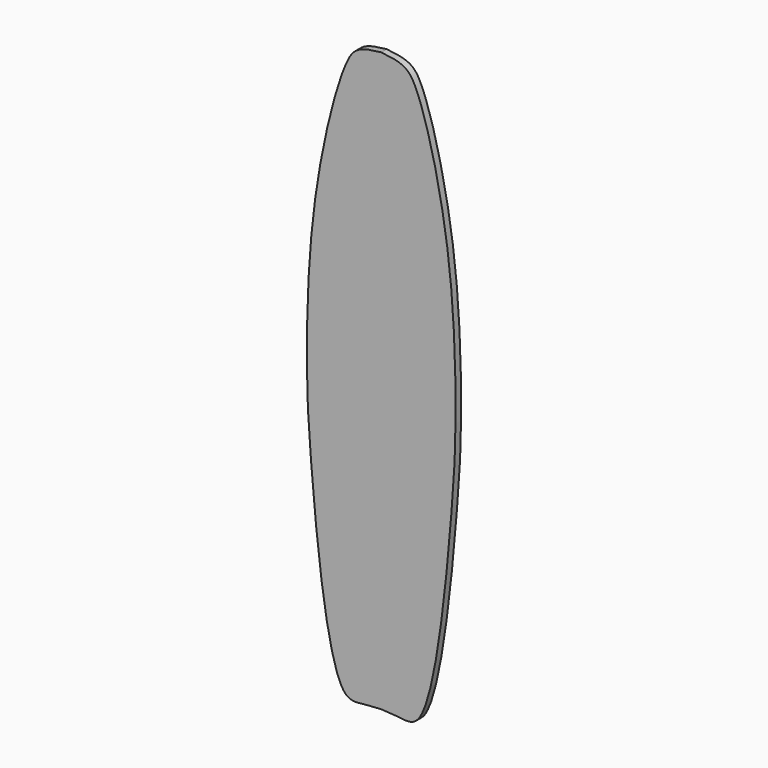
from build123d import *

# Parameters (mm, degrees)
F0_W     = 15.7219674438
F0_H     = 50.8
F0_W_2   = 16.0280325562
F0_W_3   = 15.8750093132
F0_W_4   = 15.8749906868
F1_DEPTH = 6.35


with BuildPart() as f1:
    # F0 (on Front) → F1 (new body)
    with BuildSketch(Plane.XZ):
        with BuildLine():
            add(Edge.make_bspline(
                [(0, 330.9445083141), (20.6165984273, 329.0266692638), (35.005194829, 318.5635632751), (67.6568765651, 187.0979407569), (68.6561173461, 49.0683069634), (66.6810176982, -1.5919225903), (48.1864845962, -207.0347069184), (19.293516266, -201.0162123464), (5.9220783155, -200.1899942809), (0, -199.8875894064)],
                knots=[0, 0, 0, 0, 0.0976274347, 0.2826756881, 0.4734079901, 0.6063211714, 0.8291645326, 0.9012069877, 0.9496497693, 0.9496497693, 0.9496497693, 0.9496497693], degree=3))
            add(Edge.make_bspline(
                [(0, 330.9445083141), (-20.6165984273, 329.0266692638), (-35.005194829, 318.5635632751), (-67.6568765651, 187.0979407569), (-68.6561173461, 49.0683069634), (-66.6810176982, -1.5919225903), (-48.1864845962, -207.0347069184), (-19.293516266, -201.0162123464), (-5.9220783155, -200.1899942809), (0, -199.8875894064)],
                knots=[0, 0, 0, 0, 0.0976274347, 0.2826756881, 0.4734079901, 0.6063211714, 0.8291645326, 0.9012069877, 0.9496497693, 0.9496497693, 0.9496497693, 0.9496497693], degree=3))
        make_face()
        Polygon((-15.8750093132, -62.3038246155), (0, -62.3038246155), (15.8749906868, -62.3038246155), (15.8749906868, -113.1038246155), (0, -113.1038246155), (-15.8750093132, -113.1038246155), align=None, mode=Mode.SUBTRACT)
        Polygon((-16.0280325562, 267.8961753845), (0, 267.8961753845), (15.7219674438, 267.8961753845), (15.7219674438, 217.0961753845), (0, 217.0961753845), (-16.0280325562, 217.0961753845), align=None, mode=Mode.SUBTRACT)
        with Locations((7.8609837219, 242.4961753845)):
            Rectangle(F0_W, F0_H)
        with Locations((-8.0140162781, 242.4961753845)):
            Rectangle(F0_W_2, F0_H)
        with Locations((-7.9375046566, -87.7038246155)):
            Rectangle(F0_W_3, F0_H)
        with Locations((7.9374953434, -87.7038246155)):
            Rectangle(F0_W_4, F0_H)
    extrude(amount=F1_DEPTH)


solid = f1.part
